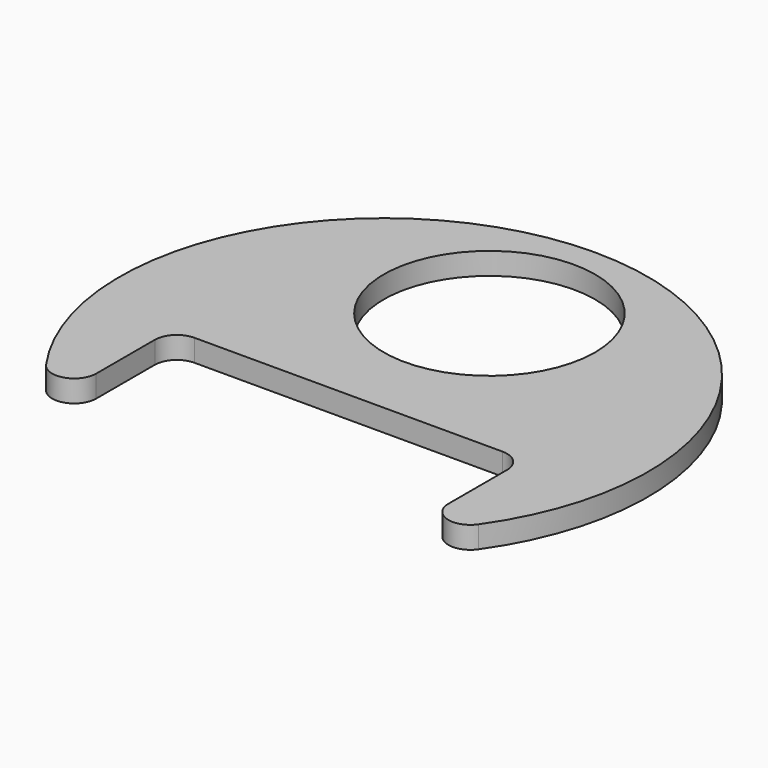
from build123d import *

# Parameters (mm, degrees)
F0_R     = 60
F3_DEPTH = 5
F1_R     = 24
F2_W     = 80
F2_H     = 80
F4_DEPTH = 5.001
F5_R     = 5
F6_R     = 5


with BuildPart() as f3:
    # F0 (on Top) → F3 (new body)
    with BuildSketch(Plane.XY):
        Circle(F0_R)
    extrude(amount=-F3_DEPTH)

    # F1 (on Top) + F2 (on Top) → F4 (cut, through all)
    with BuildSketch(Plane.XY):
        with Locations((0, 30)):
            Circle(F1_R)
    with BuildSketch(Plane.XY):
        with Locations((0, -50)):
            Rectangle(F2_W, F2_H)
    extrude(amount=-F4_DEPTH, mode=Mode.SUBTRACT)

    # F5
    f5_edges = [f3.edges().sort_by_distance(p)[0] for p in [
        (-40, -10, -2.5),
        (40, -10, -2.5),
    ]]
    fillet(f5_edges, radius=F5_R)

    # F6
    f6_edges = [f3.edges().sort_by_distance(p)[0] for p in [
        (-40, -44.72136, -2.5),
        (40, -44.72136, -2.5),
    ]]
    fillet(f6_edges, radius=F6_R)


solid = f3.part
